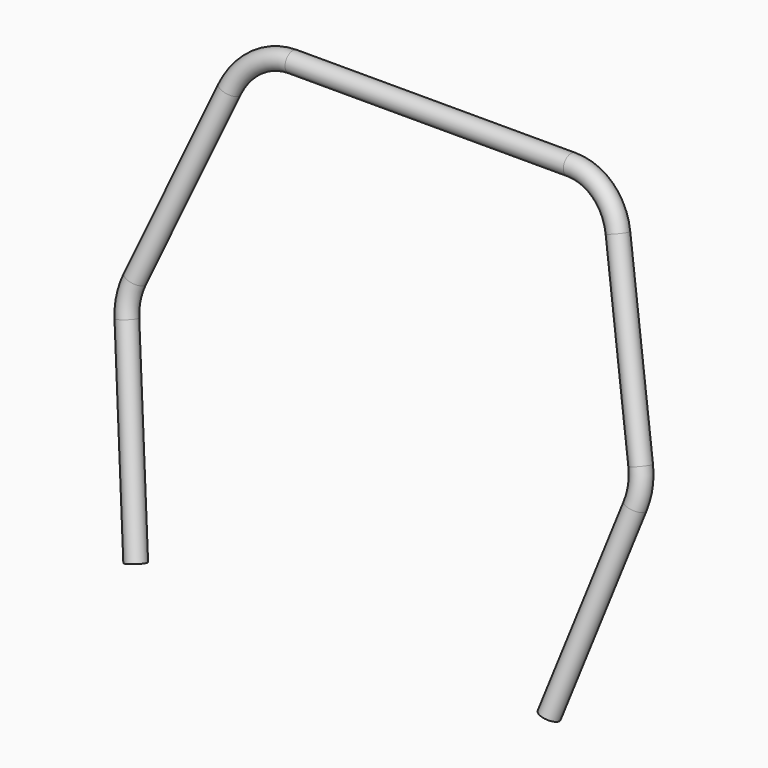
from build123d import *

# Parameters (mm, degrees)
F7_R   = 19.05
F7_R_2 = 16.002


with BuildPart() as f8:
    # F8: sweep along a path in F4
    with BuildLine(Plane(origin=(0, 94.0032983653, -25.1881078829), x_dir=(1, 0, 0), z_dir=(0, -0.9659258263, 0.2588190451))) as f8_path:
        Line((-406.4, 42.5116574847), (-499.6633089746, 409.0674219687))
        ThreePointArc((-499.6633089746, 409.0674219687), (-503.107986791, 441.6451764258), (-497.170490128, 473.8619736611))
        Line((-497.170490128, 473.8619736611), (-381.8682228592, 814.8717618607))
        ThreePointArc((-381.8682228592, 814.8717618607), (-340.2230005694, 871.1293103511), (-273.5902160586, 892.5607902362))
        Line((-273.5902160586, 892.5607902362), (0, 892.5607902362))
        Line((0, 892.5607902362), (273.5902160586, 892.5607902362))
        ThreePointArc((273.5902160586, 892.5607902362), (340.2230005694, 871.1293103511), (381.8682228592, 814.8717618607))
        Line((381.8682228592, 814.8717618607), (497.170490128, 473.8619736611))
        ThreePointArc((497.170490128, 473.8619736611), (503.107986791, 441.6451764258), (499.6633089746, 409.0674219687))
        Line((499.6633089746, 409.0674219687), (406.4, 42.5116574847))
    # F7 (on line) → F8 (sweep)
    with BuildSketch(Plane(origin=(34.8675847369, 35.4688680865, 132.3716177858), x_dir=(0.969123584, -0.0638184364, -0.2381736471), z_dir=(-0.2465755037, -0.2508276406, -0.9361014986))):
        with Locations((383.3694911677, -97.3193756776)):
            Circle(F7_R)
        with Locations((383.3694911677, -97.3193756776)):
            Circle(F7_R_2, mode=Mode.SUBTRACT)
    sweep(path=f8_path.line)


solid = f8.part
